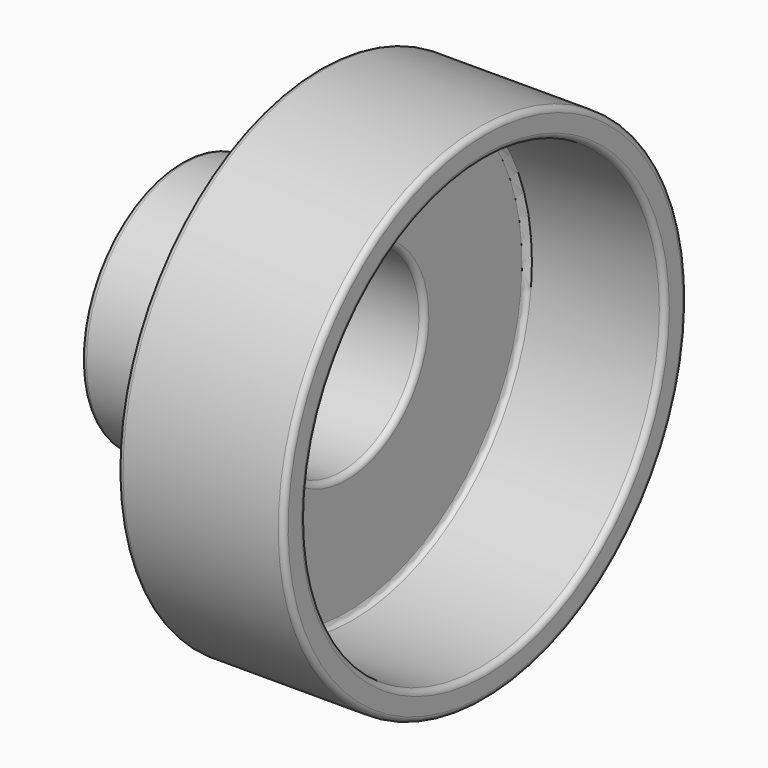
from build123d import *

# Parameters (mm, degrees)
F2_T     = -1
F3_DEPTH = 1.5
F4_R     = 0.2


with BuildPart() as f1:
    # F0 (on Front) → F1 (revolve)
    with BuildSketch(Plane.XZ):
        Polygon((-12.5, 0), (0, 0), (0, 9.1), (-6, 9.1), (-6, 4.5), (-11, 4.5), (-11, 1.4), (-12.5, 1.4), align=None)
    revolve(axis=Axis((-6.25, 0, 0), (-1, 0, 0)))

    # F2
    f2_openings = [f1.faces().sort_by_distance(p)[0] for p in [
        (0, 0, 0),
    ]]
    offset(amount=F2_T, openings=f2_openings, kind=Kind.INTERSECTION)

    # F3 (add, through all): a face of the model
    f3_faces = [f1.faces().sort_by_distance(p)[0] for p in [
        (-11.5, 0, 0),
    ]]
    extrude(f3_faces, amount=F3_DEPTH)

    # F4
    f4_edges = [f1.edges().sort_by_distance(p)[0] for p in [
        (-11, 0, -1.4),
        (-12.5, 0, -1.4),
        (-11.75, 0, 1.4),
        (-6, 0, -9.1),
        (-6, 0, -4.5),
        (-11, 0, -4.5),
        (-8.5, 0, 4.5),
        (0, 0, -9.1),
        (-3, 0, 9.1),
        (0, 0, -8.1),
        (-10, 0, -3.5),
        (-5, 0, -3.5),
        (-7.5, 0, 3.5),
        (-5, 0, -8.1),
        (-2.5, 0, 8.1),
    ]]
    fillet(f4_edges, radius=F4_R)


solid = f1.part
